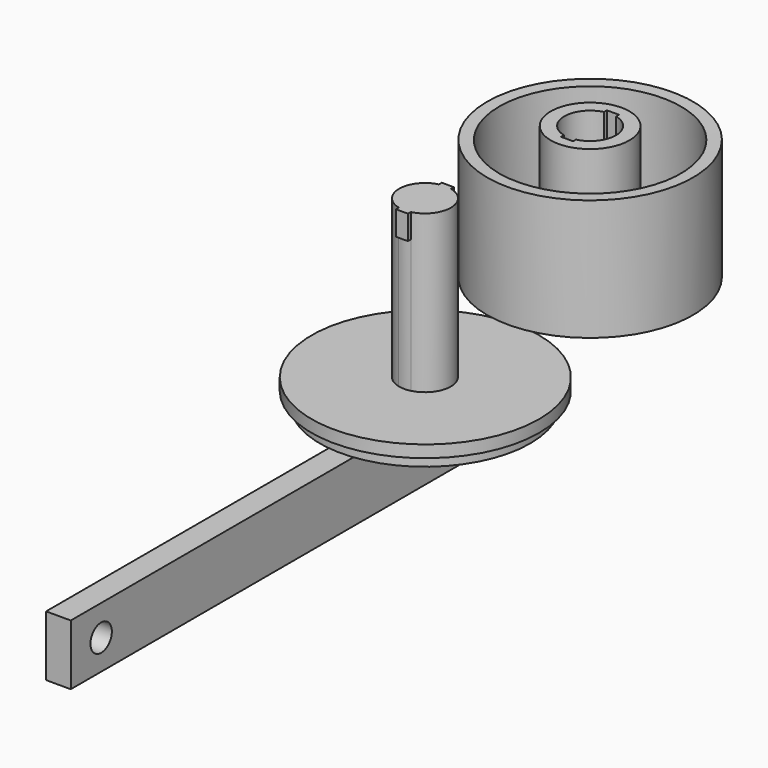
from build123d import *

# Parameters (mm, degrees)
F3_R      = 32.5
F4_DEPTH  = 110
F7_DEPTH  = 150
F9_DEPTH  = 20
F11_DEPTH = 130
F13_R     = 86.9475315801
F14_DEPTH = 10
F16_R     = 93.9258918308
F17_DEPTH = 10
F18_W     = 20.3998130746
F18_H     = 462.1341228485
F19_DEPTH = 50
F20_R     = 11.0575389885
F21_DEPTH = 50
F22_DEPTH = 25


with BuildPart() as f1:
    # F0 (on Front) → F1 (revolve)
    with BuildSketch(Plane.XZ):
        Polygon((-75, 99.7116579087), (-84.9958420775, 100), (-84.9958420775, 0), (0, 0), (0, 10), (-75, 10), align=None)
    revolve(axis=Axis((0, 0, 5), (0, 0, 1)))

    # F3 (on Top) → F4 (join)
    with BuildSketch(Plane.XY):
        Circle(F3_R)
    extrude(amount=F4_DEPTH)

    # F6 (on offset) → F7 (cut)
    with BuildSketch(Plane.XY.offset(140)):
        with BuildLine():
            Line((4.8717501444, 20.7090355216), (4.8717501444, 23.7090355216))
            Line((4.8717501444, 23.7090355216), (-5.1282498556, 23.7090355216))
            Line((-5.1282498556, 23.7090355216), (-5.1282498556, 20.7090355216))
            ThreePointArc((-5.1282498556, 20.7090355216), (-21.3345517604, 0), (-5.1282498556, -20.7090355216))
            Line((-5.1282498556, -20.7090355216), (-5.1282498556, -23.7090355216))
            Line((-5.1282498556, -23.7090355216), (4.8717501444, -23.7090355216))
            Line((4.8717501444, -23.7090355216), (4.8717501444, -20.7090355216))
            ThreePointArc((4.8717501444, -20.7090355216), (21.2743531442, 0), (4.8717501444, 20.7090355216))
        make_face()
    extrude(amount=-F7_DEPTH, mode=Mode.SUBTRACT)


with BuildPart() as f9:
    # F8 (on offset) → F9 (new body)
    with BuildSketch(Plane.XY.offset(110)):
        with BuildLine():
            Line((8.9057389681, -154.8086054863), (8.9057389681, -151.8086054863))
            Line((8.9057389681, -151.8086054863), (-1.0942610319, -151.8086054863))
            Line((-1.0942610319, -151.8086054863), (-1.0942610319, -154.8086054863))
            ThreePointArc((-1.0942610319, -154.8086054863), (-17.3005629368, -175.5176410079), (-1.0942610319, -196.2266765295))
            Line((-1.0942610319, -196.2266765295), (-1.0942610319, -199.2266765295))
            Line((-1.0942610319, -199.2266765295), (8.9057389681, -199.2266765295))
            Line((8.9057389681, -199.2266765295), (8.9057389681, -196.2266765295))
            ThreePointArc((8.9057389681, -196.2266765295), (25.3083419679, -175.5176410079), (8.9057389681, -154.8086054863))
        make_face()
    extrude(amount=F9_DEPTH)

    # F10 (on face) → F11 (join)
    with BuildSketch(Plane(origin=(0, 0, 110), x_dir=(1, 0, 0), z_dir=(0, 0, -1))):
        with BuildLine():
            Line((8.9057389681, 196.2266765295), (8.9057389681, 196.3005188475))
            ThreePointArc((8.9057389681, 196.3005188475), (3.9020688679, 196.8634733386), (-1.0942610319, 196.238717577))
            Line((-1.0942610319, 196.238717577), (-1.0942610319, 196.2266765295))
            ThreePointArc((-1.0942610319, 196.2266765295), (-17.3005629368, 175.5176410079), (-1.0942610319, 154.8086054863))
            Line((-1.0942610319, 154.8086054863), (-1.0942610319, 154.7965644388))
            ThreePointArc((-1.0942610319, 154.7965644388), (3.9020688679, 154.1718086772), (8.9057389681, 154.7347631683))
            Line((8.9057389681, 154.7347631683), (8.9057389681, 154.8086054863))
            ThreePointArc((8.9057389681, 154.8086054863), (25.3083419679, 175.5176410079), (8.9057389681, 196.2266765295))
        make_face()
    extrude(amount=F11_DEPTH)


with BuildPart() as f14:
    # F13 (on face) → F14 (new body)
    with BuildSketch(Plane(origin=(0, 0, -20), x_dir=(1, 0, 0), z_dir=(0, 0, -1))):
        with Locations((4.0339888236, 175.5176410079)):
            Circle(F13_R)
        with BuildLine():
            ThreePointArc((8.9057389681, 154.7347631683), (3.9020688679, 154.1718086772), (-1.0942610319, 154.7965644388))
            Line((-1.0942610319, 154.7965644388), (-1.0942610319, 154.8086054863))
            ThreePointArc((-1.0942610319, 154.8086054863), (-17.3005629368, 175.5176410079), (-1.0942610319, 196.2266765295))
            Line((-1.0942610319, 196.2266765295), (-1.0942610319, 196.238717577))
            ThreePointArc((-1.0942610319, 196.238717577), (3.9020688679, 196.8634733386), (8.9057389681, 196.3005188475))
            Line((8.9057389681, 196.3005188475), (8.9057389681, 196.2266765295))
            ThreePointArc((8.9057389681, 196.2266765295), (25.3083419679, 175.5176410079), (8.9057389681, 154.8086054863))
            Line((8.9057389681, 154.8086054863), (8.9057389681, 154.7347631683))
        make_face(mode=Mode.SUBTRACT)
    extrude(amount=-F14_DEPTH)


with BuildPart() as f17:
    # F16 (on offset) → F17 (new body)
    with BuildSketch(Plane.XY):
        with Locations((4.3564210646, -175.5494177341)):
            Circle(F16_R)
    extrude(amount=-F17_DEPTH)


with BuildPart() as f19:
    # F18 (on offset) → F19 (new body)
    with BuildSketch(Plane.XY.offset(-20)):
        with Locations((3.8470111322, -322.6678967476)):
            Rectangle(F18_W, F18_H)
    extrude(amount=-F19_DEPTH)

    # F20 (on Right) → F21 (cut)
    with BuildSketch(Plane.YZ):
        with Locations((-522.3870873451, -45.2235266566)):
            Circle(F20_R)
    extrude(amount=F21_DEPTH, mode=Mode.SUBTRACT)

    # F20 (on Right) → F22 (cut)
    with BuildSketch(Plane.YZ):
        with Locations((-522.3870873451, -45.2235266566)):
            Circle(F20_R)
    extrude(amount=-F22_DEPTH, mode=Mode.SUBTRACT)


solid = Compound([f1.part, f9.part, f14.part, f17.part, f19.part])
